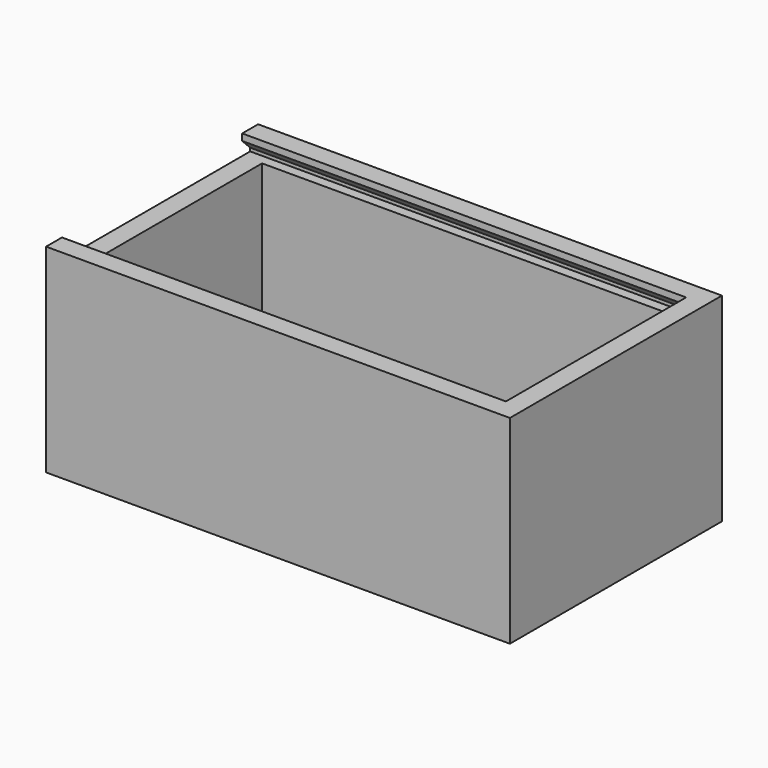
from build123d import *

# Parameters (mm, degrees)
F0_W     = 70
F0_H     = 40
F1_DEPTH = 30
F2_T     = -3
F3_W     = 34
F3_H     = 1
F4_DEPTH = 67


with BuildPart() as f1:
    # F0 (on Top) → F1 (new body)
    with BuildSketch(Plane.XY):
        Rectangle(F0_W, F0_H)
    extrude(amount=F1_DEPTH)

    # F2
    f2_openings = [f1.faces().sort_by_distance(p)[0] for p in [
        (0, 0, 30),
    ]]
    offset(amount=F2_T, openings=f2_openings)

    # F3 (on face) → F4 (cut, through all)
    with BuildSketch(Plane(origin=(-35, 0, 0), x_dir=(0, -1, 0), z_dir=(-1, 0, 0))):
        Polygon((-18.5, 27.5), (-18.5, 27), (18.5, 27), (18.5, 27.5), (17, 29), (-17, 29), align=None)
        with Locations((0, 29.5)):
            Rectangle(F3_W, F3_H)
    extrude(amount=-F4_DEPTH, mode=Mode.SUBTRACT)


solid = f1.part
